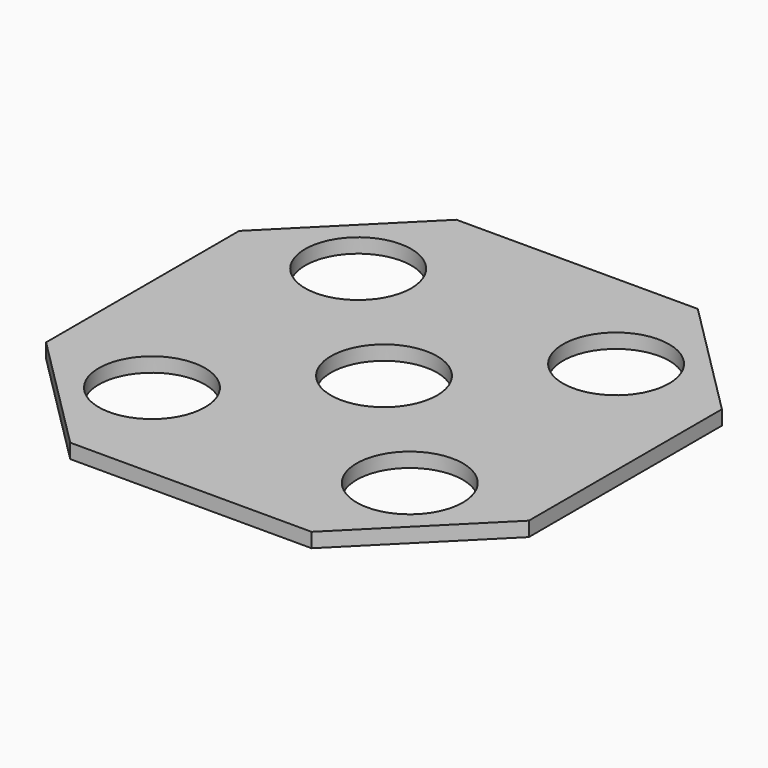
from build123d import *

# Parameters (mm, degrees)
F0_R     = 11
F1_DEPTH = 3


with BuildPart() as f1:
    # F0 (on Top) → F1 (new body)
    with BuildSketch(Plane.XY):
        Polygon((25, 50), (0, 50), (-25, 50), (-50, 25), (-50, 0), (-50, -25), (-25, -50), (0, -50), (25, -50), (50, -25), (50, 0), (50, 25), align=None)
        with Locations((-26.706523, -26.706523)):
            Circle(F0_R, mode=Mode.SUBTRACT)
        with Locations((26.706523, -26.706523)):
            Circle(F0_R, mode=Mode.SUBTRACT)
        with Locations((-26.706523, 26.706523)):
            Circle(F0_R, mode=Mode.SUBTRACT)
        Circle(F0_R, mode=Mode.SUBTRACT)
        with Locations((26.706523, 26.706523)):
            Circle(F0_R, mode=Mode.SUBTRACT)
    extrude(amount=F1_DEPTH)


solid = f1.part
